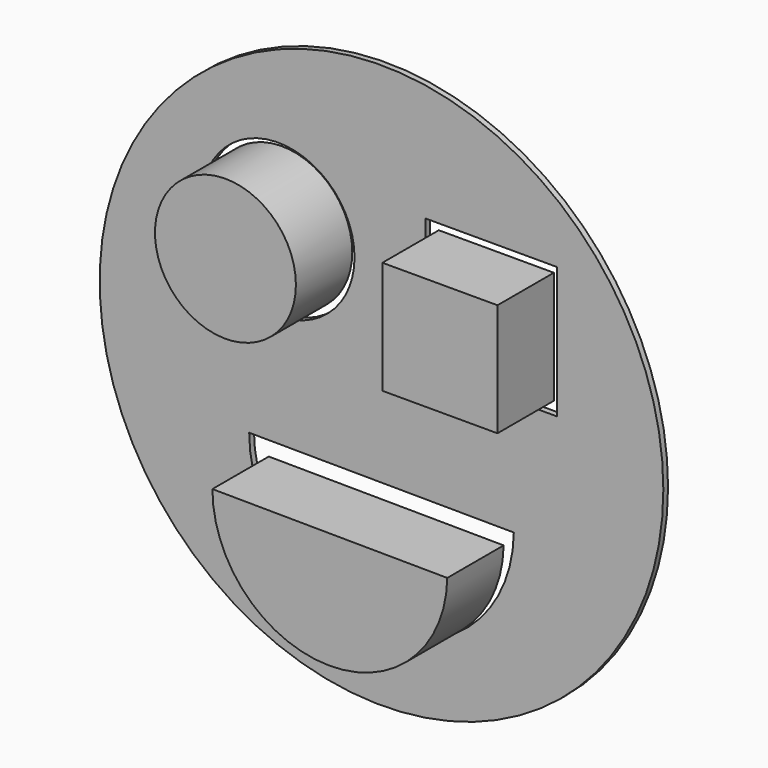
from build123d import *

# Parameters (mm, degrees)
F0_R      = 152.4
F1_DEPTH  = 3.175
F3_W      = 71.12
F3_H      = 71.12
F4_DEPTH  = 25.4
F6_DEPTH  = 25.4
F2_R      = 41.275
F7_DEPTH  = 25.4
F8_R      = 38.1
F9_DEPTH  = 38.1
F10_W     = 62.23
F10_H     = 60.96
F11_DEPTH = 38.1
F13_DEPTH = 38.1


with BuildPart() as f1:
    # F0 (on Front) → F1 (new body)
    with BuildSketch(Plane.XZ):
        Circle(F0_R)
    extrude(amount=F1_DEPTH)

    # F3 (on face) → F4 (cut)
    with BuildSketch(Plane.XZ.offset(3.175)):
        with Locations((59.213508, 51.616844)):
            Rectangle(F3_W, F3_H)
    extrude(amount=-F4_DEPTH, mode=Mode.SUBTRACT)

    # F5 (on face) → F6 (cut)
    with BuildSketch(Plane.XZ.offset(3.175)):
        with BuildLine():
            Line((71.548938, -46.80524), (-71.555652, -45.825023))
            ThreePointArc((-71.555652, -45.825023), (-0.49012, -117.378996), (71.548938, -46.80524))
        make_face()
    extrude(amount=-F6_DEPTH, mode=Mode.SUBTRACT)

    # F2 (on face) → F7 (cut)
    with BuildSketch(Plane.XZ.offset(3.175)):
        with Locations((-55.872221, 56.117274)):
            Circle(F2_R)
    extrude(amount=-F7_DEPTH, mode=Mode.SUBTRACT)


with BuildPart() as f9:
    # F8 (on Front) → F9 (new body)
    with BuildSketch(Plane.XZ):
        with Locations((-56.45477, 56.100138)):
            Circle(F8_R)
    extrude(amount=F9_DEPTH)


with BuildPart() as f11:
    # F10 (on Front) → F11 (new body)
    with BuildSketch(Plane.XZ):
        with Locations((59.541221, 51.309557)):
            Rectangle(F10_W, F10_H)
    extrude(amount=F11_DEPTH)


with BuildPart() as f13:
    # F12 (on Front) → F13 (new body)
    with BuildSketch(Plane.XZ):
        with BuildLine():
            Line((63.494001, -56.836682), (-63.502, -55.828842))
            ThreePointArc((-63.502, -55.828842), (-0.503936, -119.328842), (63.494001, -56.836682))
        make_face()
    extrude(amount=F13_DEPTH)


solid = Compound([f1.part, f9.part, f11.part, f13.part])
